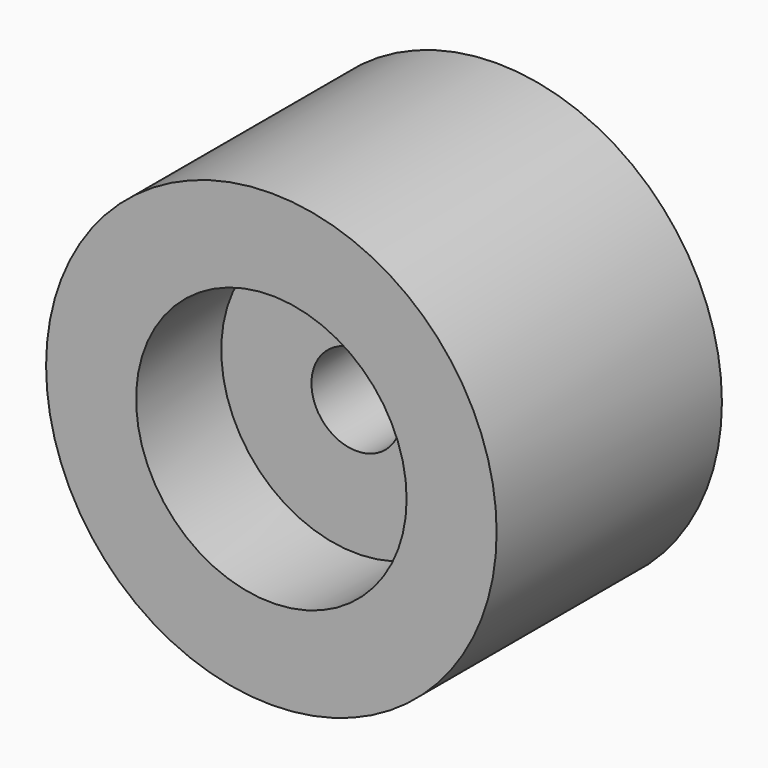
from build123d import *

# Parameters (mm, degrees)
F0_R     = 25.4
F1_DEPTH = 31.75
F2_R     = 5.08
F3_DEPTH = 31.751
F4_R     = 15.25
F5_DEPTH = 12
F6_R     = 15.25
F7_DEPTH = 12


with BuildPart() as f1:
    # F0 (on Front) → F1 (new body)
    with BuildSketch(Plane.XZ):
        Circle(F0_R)
    extrude(amount=F1_DEPTH)

    # F2 (on face) → F3 (cut, through all)
    with BuildSketch(Plane.XZ.offset(31.75)):
        Circle(F2_R)
    extrude(amount=-F3_DEPTH, mode=Mode.SUBTRACT)

    # F4 (on face) → F5 (cut)
    with BuildSketch(Plane(origin=(0, 0, 0), x_dir=(-1, 0, 0), z_dir=(0, 1, 0))):
        Circle(F4_R)
    extrude(amount=-F5_DEPTH, mode=Mode.SUBTRACT)

    # F6 (on face) → F7 (cut)
    with BuildSketch(Plane.XZ.offset(31.75)):
        Circle(F6_R)
    extrude(amount=-F7_DEPTH, mode=Mode.SUBTRACT)


solid = f1.part
